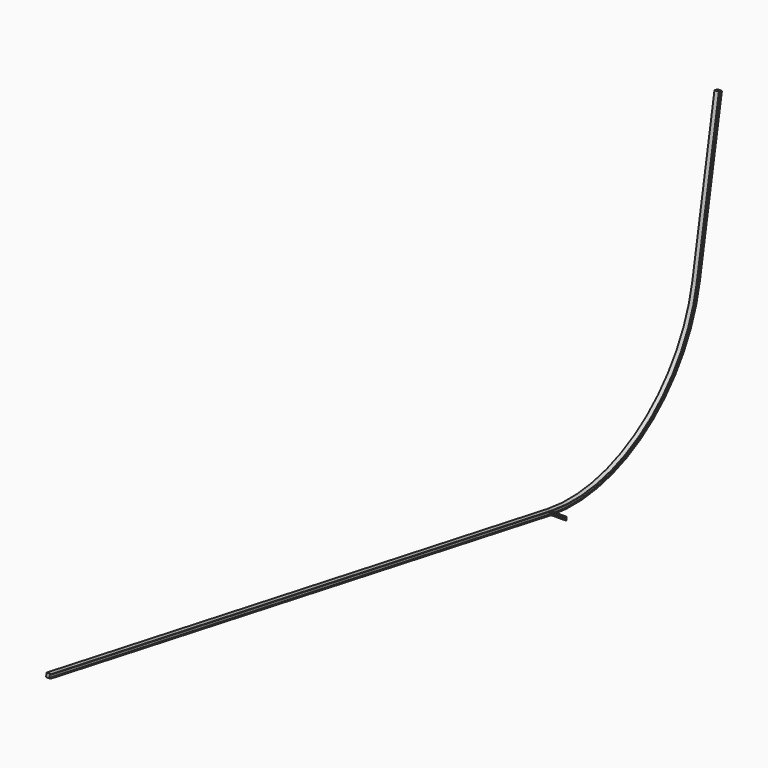
from build123d import *

# Parameters (mm, degrees)
F3_W     = 38.1
F3_H     = 34.925
F6_DEPTH = 188.595


with BuildPart() as f4:
    # F4: sweep along a path in F1
    with BuildLine(Plane.YZ) as f4_path:
        Line((635.135575, 3602.032837), (317.567787, 1801.016419))
        ThreePointArc((317.567787, 1801.016419), (-434.492045, 620.518947), (-1801.016419, 317.567787))
        Line((-1801.016419, 317.567787), (-9005.082094, 1587.838937))
    # F3 (on face) → F4 (sweep)
    with BuildSketch(Plane(origin=(0, 635.135575, 3602.032837), x_dir=(1, 0, 0), z_dir=(0, 0.173648, 0.984808))):
        with Locations((19.05, 0)):
            Rectangle(F3_W, F3_H)
        Polygon((38.1, -17.4625), (0, -17.4625), (0, -22.225), (50.8, -22.225), (50.8, -17.4625), align=None)
        Polygon((0, 22.225), (0, 17.4625), (38.1, 17.4625), (50.8, 17.4625), (50.8, 22.225), align=None)
    sweep(path=f4_path.line)


with BuildPart() as f6:
    # F5 (on face) → F6 (new body, through all)
    with BuildSketch(Plane.YZ.offset(38.1)):
        with BuildLine():
            Line((-1804.600083, 297.243817), (-1797.984087, 334.764993))
            Line((-1797.984087, 334.764993), (-1835.505263, 341.380988))
            ThreePointArc((-1835.505263, 341.380988), (-1834.716327, 337.822331), (-1831.642115, 335.863842))
            Line((-1831.642115, 335.863842), (-1808.191381, 331.728845))
            ThreePointArc((-1808.191381, 331.728845), (-1805.117169, 329.770356), (-1804.328233, 326.211698))
            Line((-1804.328233, 326.211698), (-1808.46323, 302.760964))
            ThreePointArc((-1808.46323, 302.760964), (-1807.674295, 299.202306), (-1804.600083, 297.243817))
        make_face()
        with BuildLine():
            Line((-1804.600083, 297.243817), (-1797.984087, 334.764993))
            Line((-1797.984087, 334.764993), (-1835.505263, 341.380988))
            ThreePointArc((-1835.505263, 341.380988), (-1834.716327, 337.822331), (-1831.642115, 335.863842))
            Line((-1831.642115, 335.863842), (-1808.191381, 331.728845))
            ThreePointArc((-1808.191381, 331.728845), (-1805.117169, 329.770356), (-1804.328233, 326.211698))
            Line((-1804.328233, 326.211698), (-1808.46323, 302.760964))
            ThreePointArc((-1808.46323, 302.760964), (-1807.674295, 299.202306), (-1804.600083, 297.243817))
        make_face()
    extrude(amount=F6_DEPTH)

    # F7: cut F4
    add(f4.part, mode=Mode.SUBTRACT)


solid = Compound([f4.part, f6.part])
